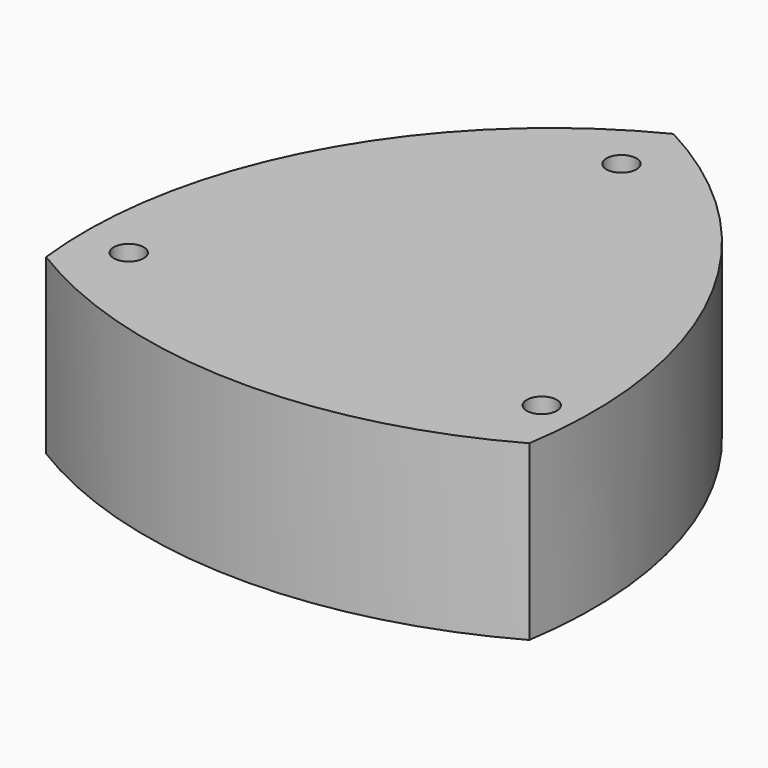
from build123d import *

# Parameters (mm, degrees)
PAD_DEPTH  = 50.8
SKETCH_R   = 4.4
HOLE_DEPTH = 50.801


with BuildPart() as part:
    # Sketch001 → Pad (new body)
    with BuildSketch(Plane.XY):
        with BuildLine():
            ThreePointArc((0, 88.9991), (-58.64132, 31.921047), (-74.045407, -48.449486))
            ThreePointArc((-74.045407, -48.449486), (-2.377196, -69.495491), (70.107976, -51.46311))
            ThreePointArc((70.107976, -51.46311), (57.587958, 30.015227), (0, 88.9991))
        make_face()
    extrude(amount=PAD_DEPTH)

    # Sketch (on Sketch) → Hole (cut, through all)
    with BuildSketch(Plane(origin=(0, 0, 0), x_dir=(-1, 0, 0), z_dir=(0, 0, -1))):
        with Locations((-60.575023, -34.979102)):
            Circle(SKETCH_R)
        with Locations((0, 69.9491)):
            Circle(SKETCH_R)
        with Locations((60.582976, -34.965326)):
            Circle(SKETCH_R)
    extrude(amount=-HOLE_DEPTH, mode=Mode.SUBTRACT)


solid = part.part
